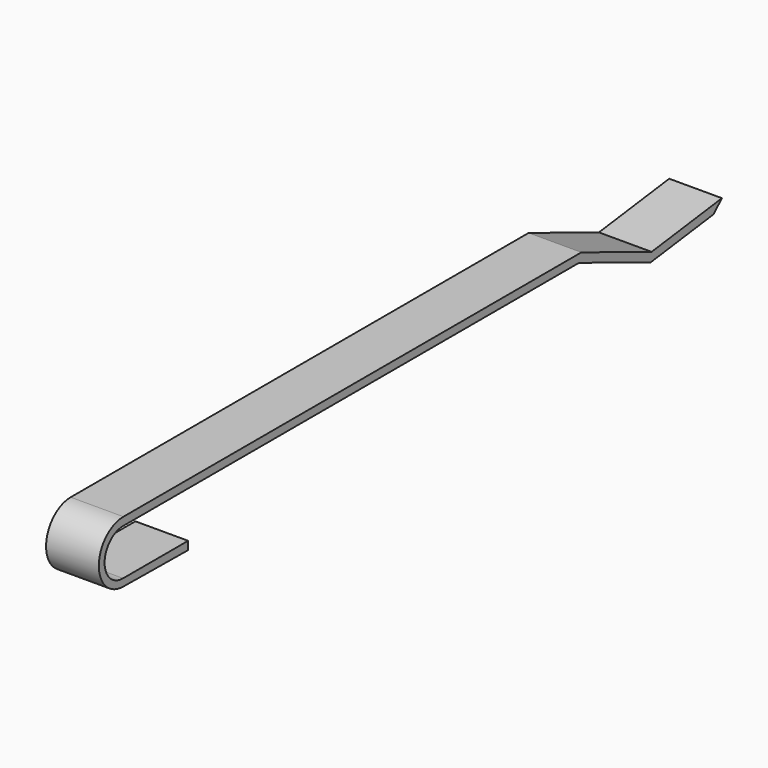
from build123d import *

# Parameters (mm, degrees)
F1_DEPTH      = 1.5
F1_DEPTH_BACK = 1.5


with BuildPart() as f1:
    # F0 (on Right) → F1 (new body, two sides)
    with BuildSketch(Plane.YZ) as f1_sk:
        with BuildLine():
            Line((-21.447533, 0.58631), (-20.846163, 1.154944))
            Line((-20.846163, 1.154944), (-25.846163, 0.497889))
            Line((-25.846163, 0.497889), (-30.846163, 2.50384))
            Line((-30.846163, 2.50384), (-63.420244, 2.50384))
            ThreePointArc((-63.420244, 2.50384), (-65.169383, 0.7547), (-63.420244, -0.994439))
            Line((-63.420244, -0.994439), (-58.815759, -1.043931))
            Line((-58.815759, -1.043931), (-58.815759, -0.573755))
            Line((-58.815759, -0.573755), (-63.445881, -0.573755))
            ThreePointArc((-63.445881, -0.573755), (-64.756701, 0.737065), (-63.445881, 2.047885))
            Line((-63.445881, 2.047885), (-58.539194, 2.047885))
            Line((-58.539194, 2.047885), (-31.013698, 2.047885))
            Line((-31.013698, 2.047885), (-25.909174, 0))
            Line((-25.909174, 0), (-21.447533, 0.58631))
        make_face()
    extrude(amount=F1_DEPTH)
    extrude(f1_sk.sketch, amount=-F1_DEPTH_BACK)


solid = f1.part
